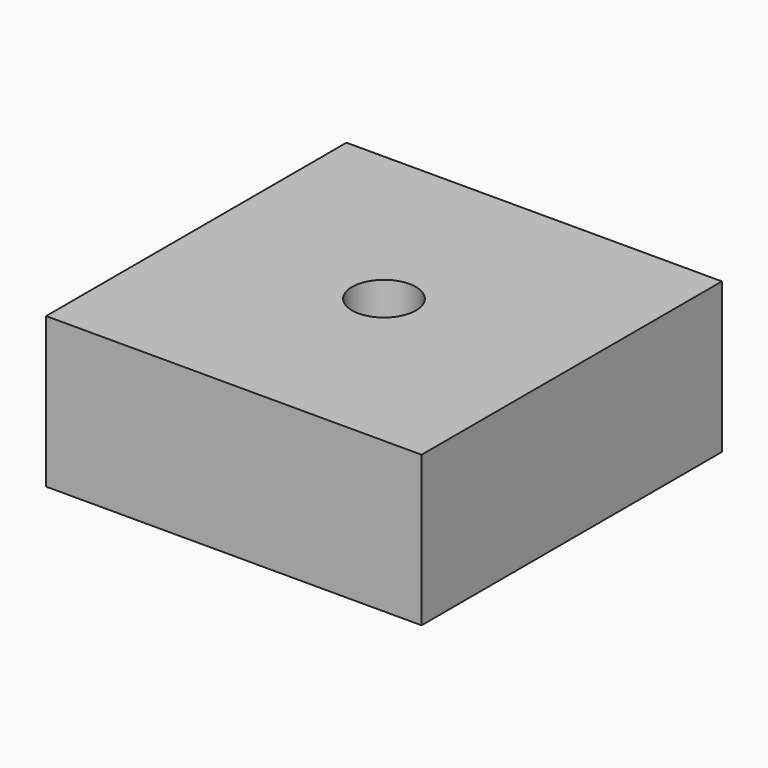
from build123d import *

# Parameters (mm, degrees)
SKETCH048_W     = 47
SKETCH048_H     = 47
PAD020_DEPTH    = 18.8
SKETCH049_R     = 4
POCKET020_DEPTH = 18.801
SKETCH077_R     = 12
POCKET032_DEPTH = 9


with BuildPart() as part:
    # Sketch048 (on Face8 of ShapeBinder008) → Pad020 (new body)
    with BuildSketch(Plane(origin=(0, 0, -24), x_dir=(-1, 0, 0), z_dir=(0, 0, -1))):
        Rectangle(SKETCH048_W, SKETCH048_H)
    extrude(amount=PAD020_DEPTH)

    # Sketch049 (on Face6 of Pad020) → Pocket020 (cut, through all)
    with BuildSketch(Plane(origin=(0, 0, -42.8), x_dir=(-1, 0, 0), z_dir=(0, 0, -1))):
        Circle(SKETCH049_R)
    extrude(amount=-POCKET020_DEPTH, mode=Mode.SUBTRACT)

    # Sketch077 (on Face5 of Pocket020) → Pocket032 (cut)
    with BuildSketch(Plane(origin=(0, 0, -42.8), x_dir=(-1, 0, 0), z_dir=(0, 0, -1))):
        Circle(SKETCH077_R)
    extrude(amount=-POCKET032_DEPTH, mode=Mode.SUBTRACT)


solid = part.part
